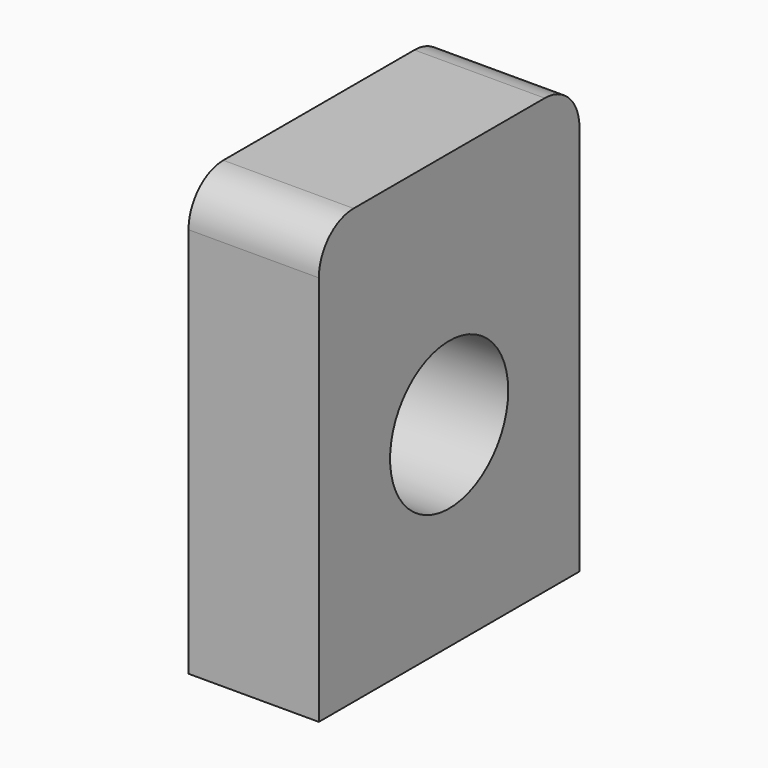
from build123d import *

# Parameters (mm, degrees)
F1_DEPTH = 9.525
F2_R     = 10.795
F3_DEPTH = 25.4


with BuildPart() as f1:
    # F0 (on Right) → F1 (new body, symmetric)
    with BuildSketch(Plane.YZ):
        with BuildLine():
            Line((-23.8125, 25.4), (-23.8125, -31.75))
            Line((-23.8125, -31.75), (23.8125, -31.75))
            Line((23.8125, -31.75), (23.8125, 25.4))
            ThreePointArc((23.8125, 25.4), (21.952628, 29.890128), (17.4625, 31.75))
            Line((17.4625, 31.75), (-17.4625, 31.75))
            ThreePointArc((-17.4625, 31.75), (-21.952628, 29.890128), (-23.8125, 25.4))
        make_face()
    extrude(amount=F1_DEPTH, both=True)

    # F2 (on face) → F3 (cut)
    with BuildSketch(Plane.YZ.offset(9.525)):
        with Locations((0, -3.175)):
            Circle(F2_R)
    extrude(amount=-F3_DEPTH, mode=Mode.SUBTRACT)


solid = f1.part
